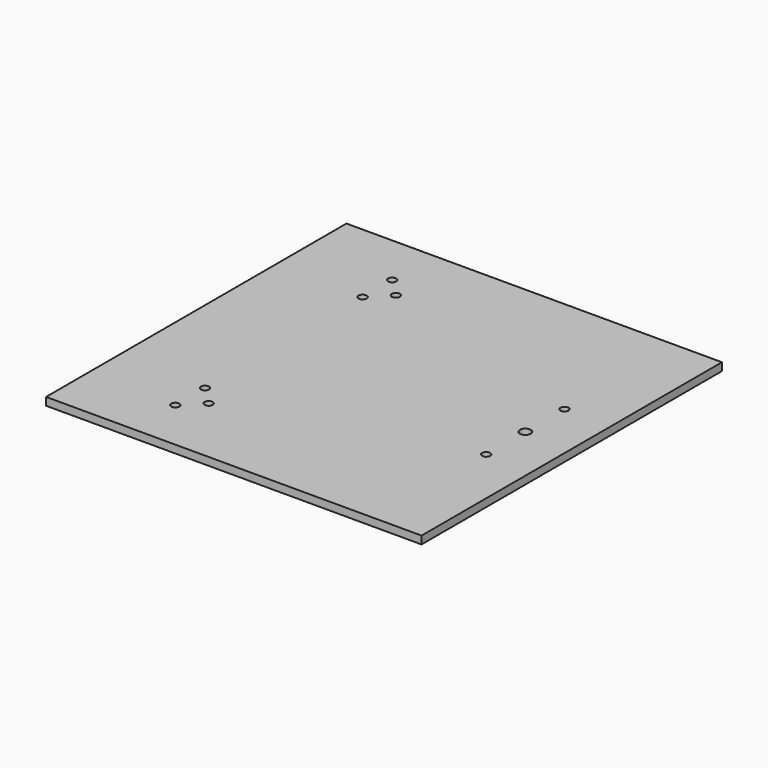
from build123d import *

# Parameters (mm, degrees)
F0_W     = 304.8
F0_H     = 304.8
F1_DEPTH = 6.35
F3_D     = 6.6
F4_D     = 8.8


with BuildPart() as f1:
    # F0 (on Top) → F1 (new body)
    with BuildSketch(Plane.XY):
        Rectangle(F0_W, F0_H)
    extrude(amount=F1_DEPTH)

    # F3 (through all)
    with Locations(Plane.XY.offset(6.35)):
        with Locations((-81.35, -110), (-66.35, -95), (-81.35, -80), (-81.35, 80), (-66.35, 95), (-81.35, 110), (114.75, 39.7726856172), (114.75, -39.7726856172)):
            Hole(F3_D / 2)

    # F4 (through all)
    with Locations(Plane.XY.offset(6.35)):
        with Locations((114.75, 0)):
            Hole(F4_D / 2)


solid = f1.part
